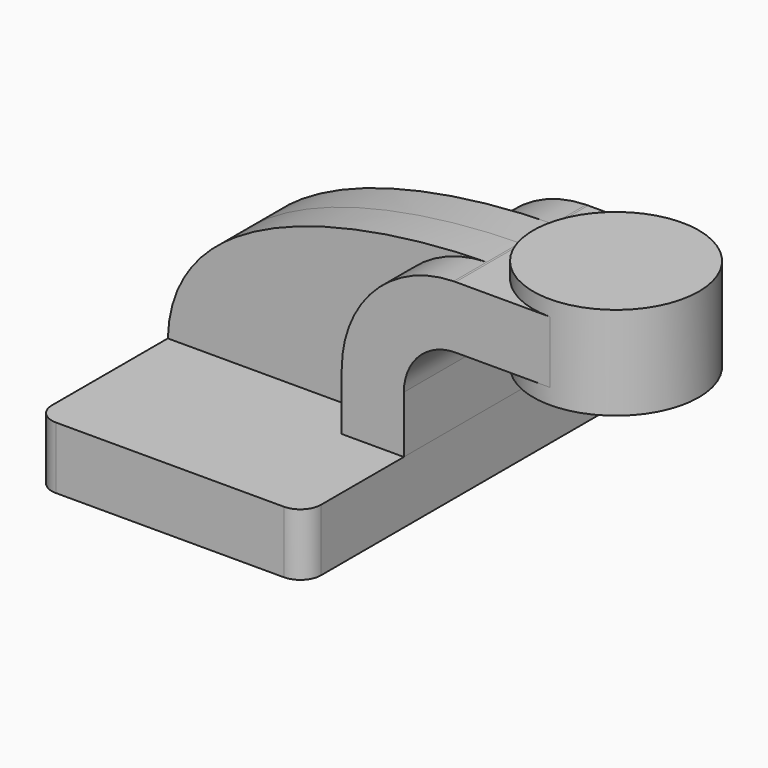
from build123d import *

# Parameters (mm, degrees)
F1_DEPTH = 63.5
F0_W     = 25.4
F0_H     = 19.05
F2_DEPTH = 25.4
F3_DEPTH = 12.7
F5_R     = 6.35


with BuildPart() as f1:
    # F0 (on Front) → F1 (new body, symmetric)
    with BuildSketch(Plane.XZ):
        Polygon((41.275, -9.525), (41.275, 9.525), (22.225, 9.525), (-41.275, 9.525), (-41.275, -9.525), align=None)
    extrude(amount=F1_DEPTH, both=True)

    # F5
    f5_edges = [f1.edges().sort_by_distance(p)[0] for p in [
        (41.275, -63.5, 0),
        (-41.275, -63.5, 0),
        (41.275, 63.5, 0),
        (-41.275, 63.5, 0),
    ]]
    fillet(f5_edges, radius=F5_R)


with BuildPart() as f2:
    # F0 (on Front) → F2 (new body, symmetric)
    with BuildSketch(Plane.XZ):
        with BuildLine():
            Line((22.225, 9.525), (41.275, 9.525))
            Line((41.275, 9.525), (41.275, 27.0002))
            ThreePointArc((41.275, 27.0002), (45.92468, 38.22552), (57.15, 42.8752))
            Line((57.15, 42.8752), (60.62278, 42.8752))
            Line((60.62278, 42.8752), (60.62278, 61.9252))
            Line((60.62278, 61.9252), (57.15, 61.9252))
            add(Edge.make_bspline(
                [(56.533133, 61.919752), (56.73967, 61.921897), (56.945298, 61.923712), (57.15, 61.9252)],
                knots=[110.853217, 110.853217, 110.853217, 110.853217, 111.504536, 111.504536, 111.504536, 111.504536], degree=3))
            ThreePointArc((56.533133, 61.919752), (32.237155, 51.476837), (22.225, 27.0002))
            Line((22.225, 27.0002), (22.225, 9.525))
        make_face()
        with Locations((73.32278, 52.4002)):
            Rectangle(F0_W, F0_H)
    extrude(amount=F2_DEPTH, both=True)

    # F0 (on Front) → F4 (revolve)
    with BuildSketch(Plane.XZ):
        Polygon((86.02278, 61.9252), (86.02278, 42.8752), (86.02278, 38.1), (111.42278, 38.1), (111.42278, 66.675), (86.02278, 66.675), align=None)
    revolve(axis=Axis((86.02278, 0, 52.4002), (0, 0, -1)))


with BuildPart() as f3:
    # F0 (on Front) → F3 (new body, symmetric)
    with BuildSketch(Plane.XZ):
        with BuildLine():
            Line((-41.275, 9.525), (22.225, 9.525))
            Line((22.225, 9.525), (22.225, 27.0002))
            ThreePointArc((22.225, 27.0002), (32.237155, 51.476837), (56.533133, 61.919752))
            add(Edge.make_bspline(
                [(-41.275, 9.525), (-40.098705, 51.604141), (21.380937, 61.554604), (56.533133, 61.919752)],
                knots=[0, 0, 0, 0, 110.853217, 110.853217, 110.853217, 110.853217], degree=3))
        make_face()
    extrude(amount=F3_DEPTH, both=True)


solid = Compound([f1.part, f2.part, f3.part])
